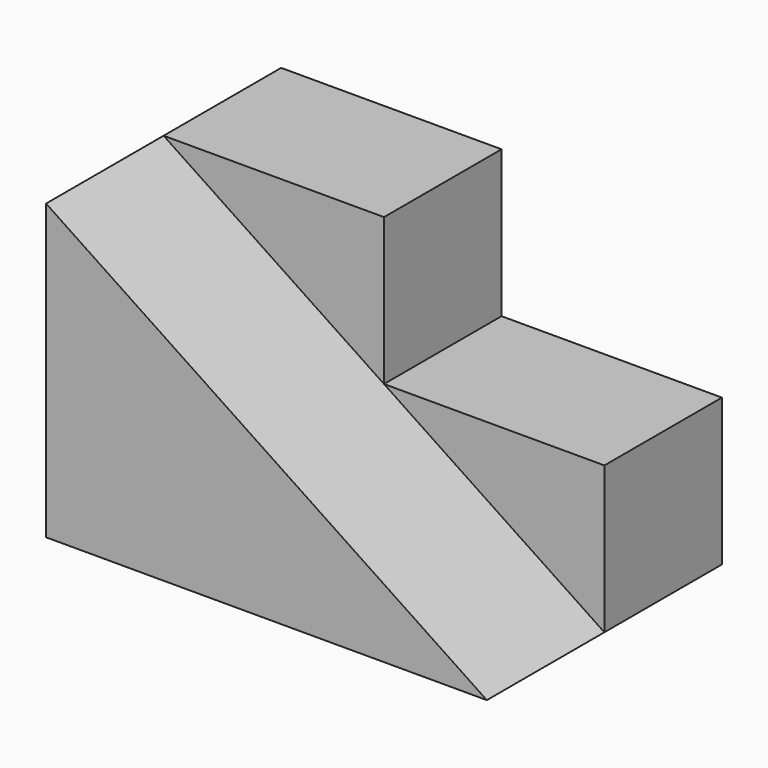
from build123d import *

# Parameters (mm, degrees)
F1_DEPTH = 12.7
F3_DEPTH = 12.7


with BuildPart() as f1:
    # F0 (on Front) → F1 (new body)
    with BuildSketch(Plane.XZ):
        Polygon((0, 25.4), (0, 0), (38.1, 0), align=None)
        Polygon((0, 25.4), (0, 0), (38.1, 0), align=None)
    extrude(amount=F1_DEPTH)

    # F2 (on Front) → F3 (join)
    with BuildSketch(Plane.XZ):
        Polygon((19.05, 25.4), (0, 25.4), (0, 0), (38.1, 0), (38.1, 12.7), (19.05, 12.7), align=None)
    extrude(amount=-F3_DEPTH)


solid = f1.part
